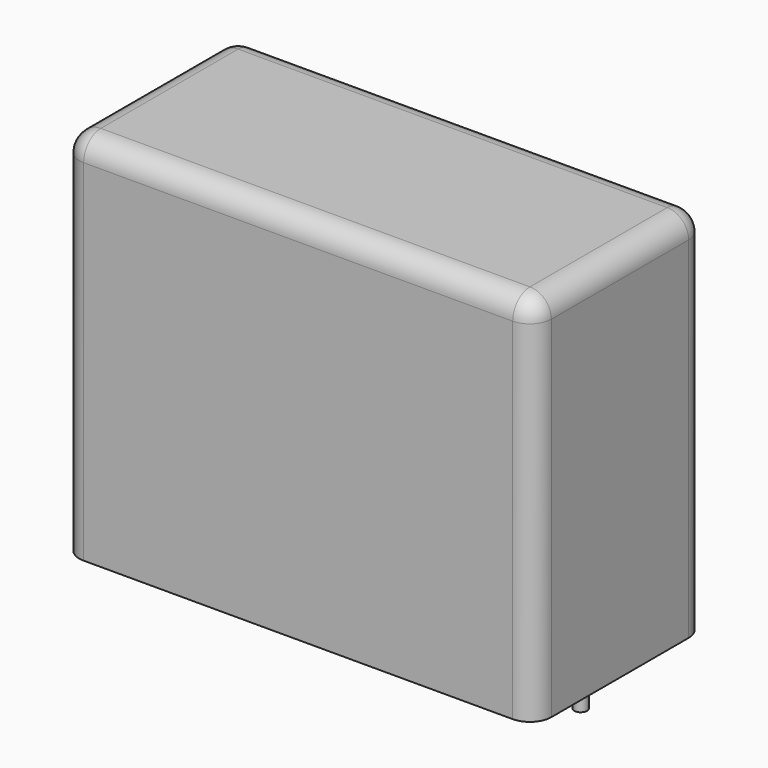
from build123d import *

# Parameters (mm, degrees)
SKETCH_W     = 33
SKETCH_H     = 15
PAD_DEPTH    = 26
FILLET_R     = 1.5
SKETCH001_R  = 0.45
PAD001_DEPTH = 3.2


with BuildPart() as fillet_body:
    # Sketch → Pad (new body)
    with BuildSketch(Plane.XY.offset(0.1)):
        with Locations((13.75, 0)):
            Rectangle(SKETCH_W, SKETCH_H)
    extrude(amount=PAD_DEPTH)

    # Fillet
    fillet_edges = [fillet_body.edges().sort_by_distance(p)[0] for p in [
        (-2.75, 0, 26.1),
        (-2.75, -7.5, 13.1),
        (13.75, -7.5, 26.1),
        (30.25, -7.5, 13.1),
        (30.25, 0, 26.1),
        (30.25, 7.5, 13.1),
        (13.75, 7.5, 26.1),
        (-2.75, 7.5, 13.1),
    ]]
    fillet(fillet_edges, radius=FILLET_R)


with BuildPart() as pad001:
    # Sketch001 → Pad001 (new body)
    with BuildSketch(Plane.XY.offset(0.5)):
        Circle(SKETCH001_R)
        with Locations((27.5, 0)):
            Circle(SKETCH001_R)
    extrude(amount=-PAD001_DEPTH)


solid = Compound([fillet_body.part, pad001.part])
